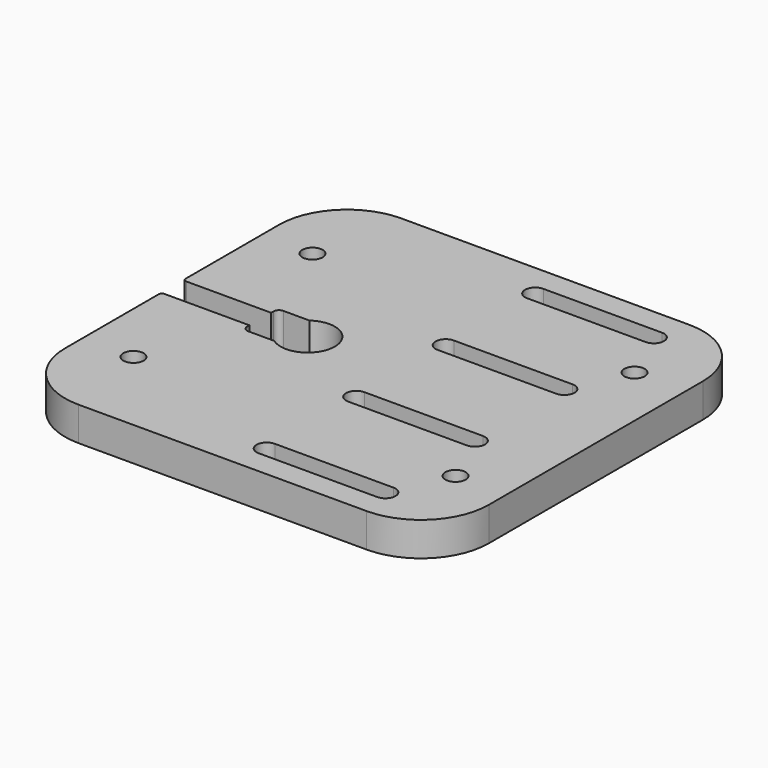
from build123d import *

# Parameters (mm, degrees)
SKETCH_R    = 3
PAD_DEPTH   = 10
FILLET_R    = 20
FILLET001_R = 1.6
FILLET002_R = 1


with BuildPart() as part:
    # Sketch → Pad (new body)
    with BuildSketch(Plane.XY):
        with BuildLine():
            ThreePointArc((-36.66369, 93.5), (-24, 100), (-36.66369, 106.5))
            Line((-46, 106.5), (-36.66369, 106.5))
            Line((-46, 106.5), (-46, 104))
            Line((-46, 104), (-72, 104))
            Line((-72, 159.5), (-72, 104))
            Line((53, 159.5), (-72, 159.5))
            Line((53, 40.5), (53, 159.5))
            Line((-72, 40.5), (53, 40.5))
            Line((-72, 96), (-72, 40.5))
            Line((-46, 96), (-72, 96))
            Line((-46, 93.5), (-46, 96))
            Line((-46, 93.5), (-36.66369, 93.5))
        make_face()
        with Locations((-57, 133)):
            Circle(SKETCH_R, mode=Mode.SUBTRACT)
        with Locations((-57, 67)):
            Circle(SKETCH_R, mode=Mode.SUBTRACT)
        with Locations((38, 133)):
            Circle(SKETCH_R, mode=Mode.SUBTRACT)
        with Locations((38, 67)):
            Circle(SKETCH_R, mode=Mode.SUBTRACT)
        with BuildLine():
            ThreePointArc((-4.5, 152.5), (-7.5, 149.5), (-4.5, 146.5))
            Line((-4.5, 146.5), (30.5, 146.5))
            ThreePointArc((30.5, 146.5), (33.5, 149.5), (30.5, 152.5))
            Line((-4.5, 152.5), (30.5, 152.5))
        make_face(mode=Mode.SUBTRACT)
        with BuildLine():
            ThreePointArc((-4.5, 119.5), (-7.5, 116.5), (-4.5, 113.5))
            Line((-4.5, 113.5), (30.5, 113.5))
            ThreePointArc((30.5, 113.5), (33.5, 116.5), (30.5, 119.5))
            Line((-4.5, 119.5), (30.5, 119.5))
        make_face(mode=Mode.SUBTRACT)
        with BuildLine():
            ThreePointArc((-4.5, 86.5), (-7.5, 83.5), (-4.5, 80.5))
            Line((-4.5, 80.5), (30.5, 80.5))
            ThreePointArc((30.5, 80.5), (33.5, 83.5), (30.5, 86.5))
            Line((-4.5, 86.5), (30.5, 86.5))
        make_face(mode=Mode.SUBTRACT)
        with BuildLine():
            ThreePointArc((-4.5, 53.5), (-7.5, 50.5), (-4.5, 47.5))
            Line((-4.5, 47.5), (30.5, 47.5))
            ThreePointArc((30.5, 47.5), (33.5, 50.5), (30.5, 53.5))
            Line((-4.5, 53.5), (30.5, 53.5))
        make_face(mode=Mode.SUBTRACT)
    extrude(amount=PAD_DEPTH)

    # Fillet
    fillet_edges = [part.edges().sort_by_distance(p)[0] for p in [
        (-72, 159.5, 5),
        (53, 40.5, 5),
        (-72, 40.5, 5),
        (53, 159.5, 5),
    ]]
    fillet(fillet_edges, radius=FILLET_R)

    # Fillet001
    fillet001_edges = [part.edges().sort_by_distance(p)[0] for p in [
        (-46, 106.5, 5),
        (-46, 93.5, 5),
    ]]
    fillet(fillet001_edges, radius=FILLET001_R)

    # Fillet002
    fillet002_edges = [part.edges().sort_by_distance(p)[0] for p in [
        (-72, 104, 5),
        (-72, 96, 5),
    ]]
    fillet(fillet002_edges, radius=FILLET002_R)


solid = part.part
